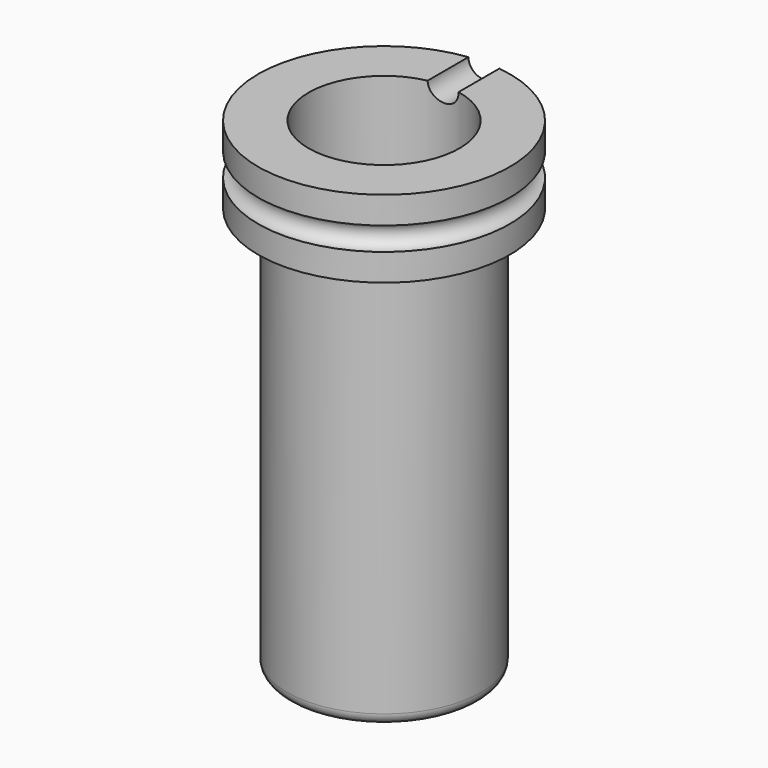
from build123d import *

# Parameters (mm, degrees)
F2_R     = 4
F3_DEPTH = 50


with BuildPart() as f1:
    # F0 (on Front) → F1 (revolve)
    with BuildSketch(Plane.XZ):
        with BuildLine():
            Line((-22, 0), (0, 0))
            Line((0, 0), (0, 8))
            Line((0, 8), (-19.5, 8))
            Line((-19.5, 8), (-19.5, 125))
            Line((-19.5, 125), (-32.5, 125))
            Line((-32.5, 125), (-32.5, 118))
            ThreePointArc((-32.5, 118), (-29.5, 115), (-32.5, 112))
            Line((-32.5, 112), (-32.5, 105))
            Line((-32.5, 105), (-25, 105))
            Line((-25, 105), (-25, 3))
            ThreePointArc((-25, 3), (-24.12132, 0.87868), (-22, 0))
        make_face()
    revolve(axis=Axis((0, 0, 4), (0, 0, -1)))

    # F2 (on Front) → F3 (cut)
    with BuildSketch(Plane.XZ):
        with Locations((0, 125)):
            Circle(F2_R)
    extrude(amount=-F3_DEPTH, mode=Mode.SUBTRACT)


solid = f1.part
